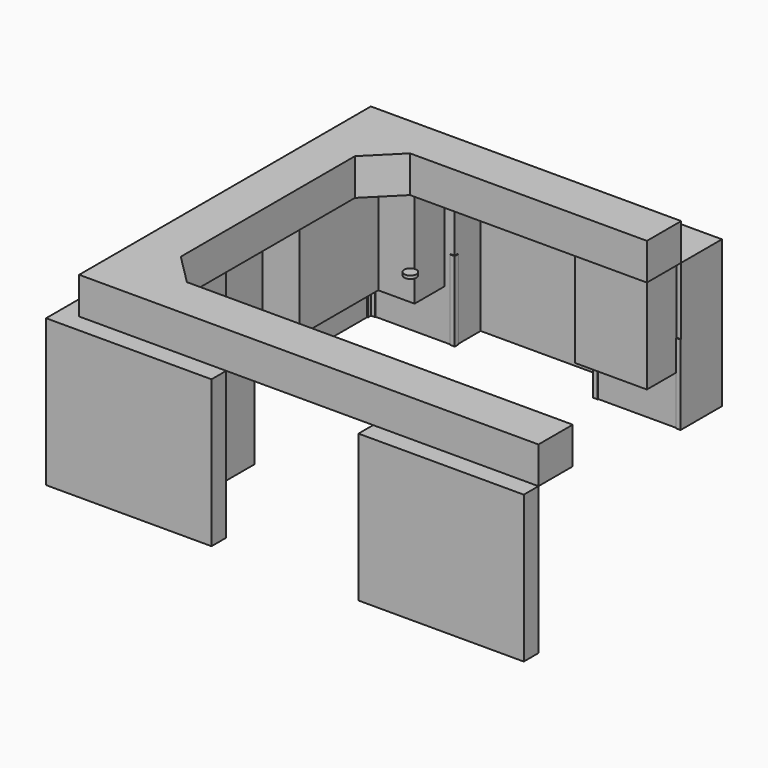
from build123d import *

# Parameters (mm, degrees)
F0_W     = 1371.6
F0_H     = 152.4
F1_DEPTH = 1219.2
F2_W     = 596.175
F2_H     = 307.975
F2_W_2   = 390.525
F3_DEPTH = 812.8
F4_W     = 38.1
F4_H     = 6.35
F5_DEPTH = 660.4
F7_DEPTH = 304.8
F8_R     = 50.8
F9_DEPTH = 25.4


with BuildPart() as f1:
    # F0 (on Top) → F1 (new body)
    with BuildSketch(Plane.XY):
        Polygon((-720, 0), (0, 0), (0, 422.4), (-2727.4, 422.4), (-2727.4, -3177.4), (-1355, -3177.4), (-1355, -3025), (-2575, -3025), (-2575, 0), (-1880, 0), (-1880, 270), (-720, 270), align=None)
        with Locations((550, -3101.2)):
            Rectangle(F0_W, F0_H)
    extrude(amount=F1_DEPTH)


with BuildPart() as f3:
    # F2 (on face) → F3 (new body)
    with BuildSketch(Plane.XY.offset(1219.2)):
        with Locations((-336.1875, -153.9875)):
            Rectangle(F2_W, F2_H)
        Polygon((-1965.725, -307.975), (-1965.725, 0), (-2575, 0), (-2575, -1123.95), (-2267.025, -1123.95), (-2267.025, -307.975), align=None)
        Polygon((-2267.025, -1885.175), (-2575, -1885.175), (-2575, -3025), (-1367.7, -3025), (-1367.7, -2717.025), (-2267.025, -2717.025), align=None)
        with Locations((72.1625, -2871.0125)):
            Rectangle(F2_W_2, F2_H)
    extrude(amount=-F3_DEPTH)


with BuildPart() as f5:
    # F4 (on face) → F5 (new body)
    with BuildSketch(Plane(origin=(0, 0, 0), x_dir=(1, 0, 0), z_dir=(0, 0, -1))):
        with Locations((-19.05, 3.175)):
            Rectangle(F4_W, F4_H)
        Polygon((-720, 0), (-688.25, 0), (-688.25, 6.35), (-726.35, 6.35), (-726.35, -31.75), (-720, -31.75), align=None)
        Polygon((-1911.75, 6.35), (-1911.75, 0), (-1880, 0), (-1880, -31.75), (-1873.65, -31.75), (-1873.65, 6.35), align=None)
        Polygon((-2575, 38.1), (-2575, 0), (-2536.9, 0), (-2536.9, 6.35), (-2568.65, 6.35), (-2568.65, 38.1), align=None)
        Polygon((-2536.9, 3025), (-2575, 3025), (-2575, 2986.9), (-2568.65, 2986.9), (-2568.65, 3018.65), (-2536.9, 3018.65), align=None)
    extrude(amount=-F5_DEPTH)


with BuildPart() as f7:
    # F6 (on face) → F7 (new body)
    with BuildSketch(Plane.XY.offset(1219.2)):
        Polygon((-2575, 0), (-2575, -3025), (1235.8, -3025), (1235.8, -2669.4), (-1965.4, -2669.4), (-2219.4, -2415.4), (-2219.4, -609.6), (-1965.4, -355.6), (0, -355.6), (0, 0), align=None)
    extrude(amount=F7_DEPTH)


with BuildPart() as f9:
    # F8 (on face) → F9 (new body)
    with BuildSketch(Plane.XY.offset(1524)):
        with Locations((-924, -1653.4)):
            Circle(F8_R)
    extrude(amount=-F9_DEPTH)


solid = Compound([f1.part, f3.part, f5.part, f7.part, f9.part])
